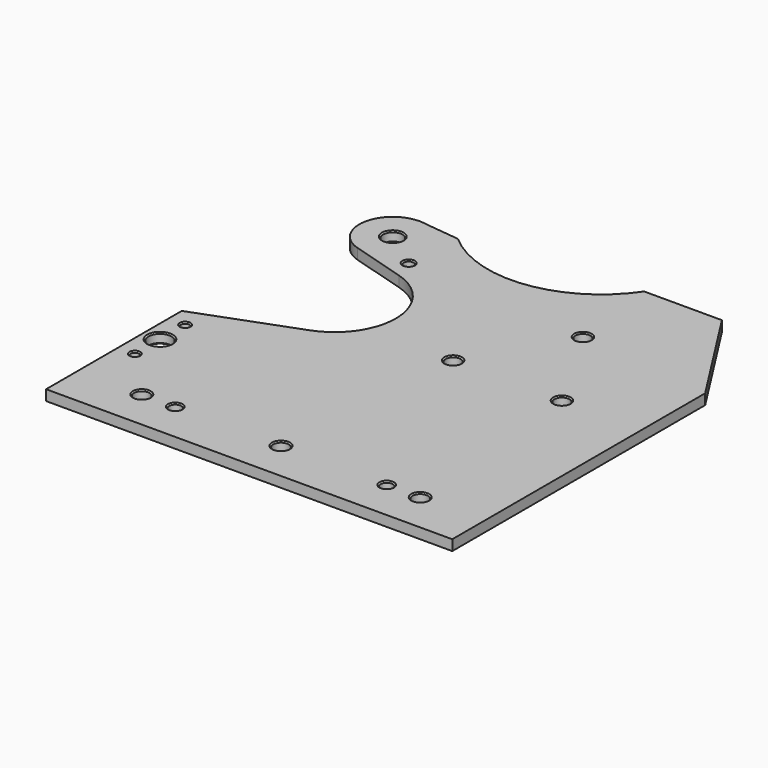
from build123d import *

# Parameters (mm, degrees)
F0_R     = 1.85
F0_R_2   = 1.45
F0_R_3   = 1
F0_R_4   = 2.75
F0_R_5   = 1.2
F0_R_6   = 2.3
F0_R_7   = 1.8
F1_DEPTH = 2.5
F2_SIZE  = 0.3


with BuildPart() as f1:
    # F0 (on Top) → F1 (new body)
    with BuildSketch(Plane.XY):
        with BuildLine():
            ThreePointArc((13.745146, 96.307334), (12.877874, 96.451688), (12, 96.5))
            Line((12, 96.5), (13.745146, 96.307334))
        make_face()
        with BuildLine():
            Line((0, 40.5), (0, 0))
            Line((0, 0), (97, 0))
            Line((97, 0), (97, 75.5))
            Line((97, 75.5), (81, 100.5))
            Line((81, 100.5), (62.435909, 100.5))
            ThreePointArc((62.435909, 100.5), (43.402845, 88.81449), (22.058582, 95.389522))
            Line((22.058582, 95.389522), (13.745146, 96.307334))
            Line((13.745146, 96.307334), (12, 96.5))
            ThreePointArc((12, 96.5), (4.082951, 89.649058), (9.725713, 80.830084))
            Line((9.725713, 80.830084), (22.650574, 76.997597))
            ThreePointArc((22.650574, 76.997597), (33.091215, 63.506399), (23.611014, 49.323833))
            Line((23.611014, 49.323833), (0, 40.5))
        make_face()
        with Locations((15.25, 9.5)):
            Circle(F0_R, mode=Mode.SUBTRACT)
        with Locations((23.25, 9.5)):
            Circle(F0_R_2, mode=Mode.SUBTRACT)
        with Locations((4, 21.5)):
            Circle(F0_R_3, mode=Mode.SUBTRACT)
        with Locations((4, 29)):
            Circle(F0_R_4, mode=Mode.SUBTRACT)
        with Locations((4, 36.5)):
            Circle(F0_R_3, mode=Mode.SUBTRACT)
        with Locations((48.5, 9.5)):
            Circle(F0_R, mode=Mode.SUBTRACT)
        with Locations((73.75, 9.5)):
            Circle(F0_R_2, mode=Mode.SUBTRACT)
        with Locations((81.75, 9.5)):
            Circle(F0_R, mode=Mode.SUBTRACT)
        with Locations((21, 82)):
            Circle(F0_R_5, mode=Mode.SUBTRACT)
        with Locations((12, 88.5)):
            Circle(F0_R_6, mode=Mode.SUBTRACT)
        with Locations((52.009619, 56.5)):
            Circle(F0_R_7, mode=Mode.SUBTRACT)
        with Locations((77.990381, 56.5)):
            Circle(F0_R_7, mode=Mode.SUBTRACT)
        with Locations((65, 79)):
            Circle(F0_R_7, mode=Mode.SUBTRACT)
    extrude(amount=F1_DEPTH)

    # F2
    f2_edges = [f1.edges().sort_by_distance(p)[0] for p in [
        (9.7, 88.5, 2.5),
        (19.8, 82, 2.5),
        (63.2, 79, 2.5),
        (50.209619, 56.5, 2.5),
        (76.190381, 56.5, 2.5),
        (3, 36.5, 2.5),
        (1.25, 29, 2.5),
        (3, 21.5, 2.5),
        (13.4, 9.5, 2.5),
        (21.8, 9.5, 2.5),
        (46.65, 9.5, 2.5),
        (72.3, 9.5, 2.5),
        (79.9, 9.5, 2.5),
        (13.4, 9.5, 0),
        (21.8, 9.5, 0),
        (46.65, 9.5, 0),
        (72.3, 9.5, 0),
        (79.9, 9.5, 0),
        (76.190381, 56.5, 0),
        (50.209619, 56.5, 0),
        (19.8, 82, 0),
        (9.7, 88.5, 0),
        (63.2, 79, 0),
        (3, 21.5, 0),
        (1.25, 29, 0),
        (3, 36.5, 0),
    ]]
    chamfer(f2_edges, length=F2_SIZE)


solid = f1.part
